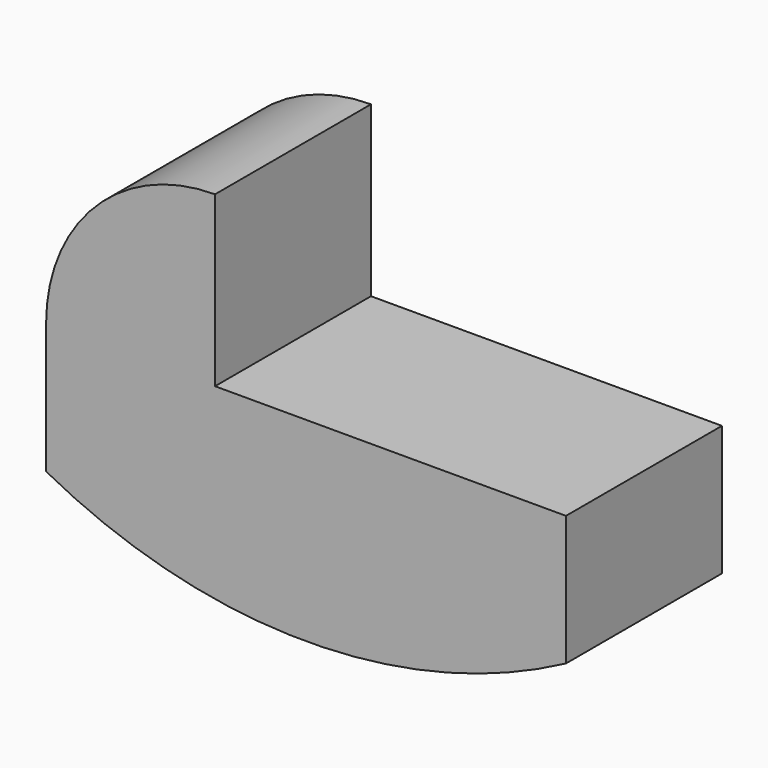
from build123d import *

# Parameters (mm, degrees)
F1_DEPTH = 30


with BuildPart() as f1:
    # F0 (on Front) → F1 (new body)
    with BuildSketch(Plane.XZ):
        with BuildLine():
            Line((-54, 20), (-54, 46))
            ThreePointArc((-54, 46), (-72.384776, 38.384776), (-80, 20))
            Line((-80, 20), (-80, 0))
            ThreePointArc((-80, 0), (-40, -10), (0, 0))
            Line((0, 0), (0, 20))
            Line((0, 20), (-54, 20))
        make_face()
    extrude(amount=F1_DEPTH)


solid = f1.part
